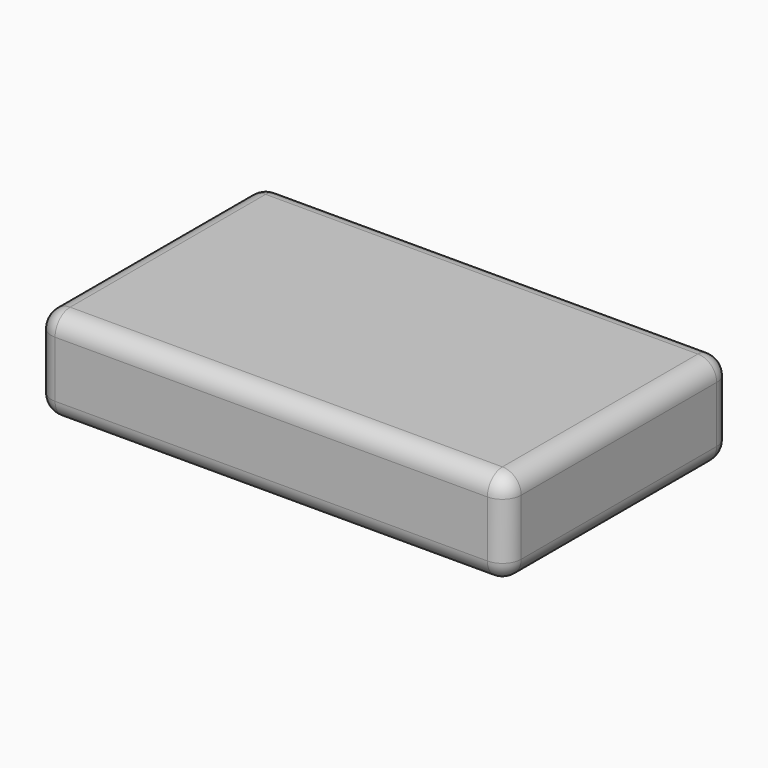
from build123d import *

# Parameters (mm, degrees)
F0_W     = 127
F0_H     = 76.2
F1_DEPTH = 25.4
F2_R     = 5.08
F3_R     = 5.08
F4_R     = 5.08


with BuildPart() as f1:
    # F0 (on Top) → F1 (new body)
    with BuildSketch(Plane.XY):
        with Locations((-1.597298, 3.412767)):
            Rectangle(F0_W, F0_H)
    extrude(amount=F1_DEPTH)

    # F2
    f2_edges = [f1.edges().sort_by_distance(p)[0] for p in [
        (-1.597298, -34.687233, 25.4),
        (61.902702, 3.412767, 25.4),
        (61.902702, -34.687233, 12.7),
    ]]
    fillet(f2_edges, radius=F2_R)

    # F3
    f3_edges = [f1.edges().sort_by_distance(p)[0] for p in [
        (-65.097298, 5.952767, 25.4),
        (-65.097298, -34.687233, 10.16),
        (-65.097298, 3.412767, 0),
        (-4.137298, -34.687233, 0),
    ]]
    fillet(f3_edges, radius=F3_R)

    # F4
    f4_edges = [f1.edges().sort_by_distance(p)[0] for p in [
        (-1.597298, 41.512767, 0),
        (61.902702, 41.512767, 12.7),
        (-1.597298, 41.512767, 25.4),
        (-65.097298, 41.512767, 12.7),
    ]]
    fillet(f4_edges, radius=F4_R)


solid = f1.part
